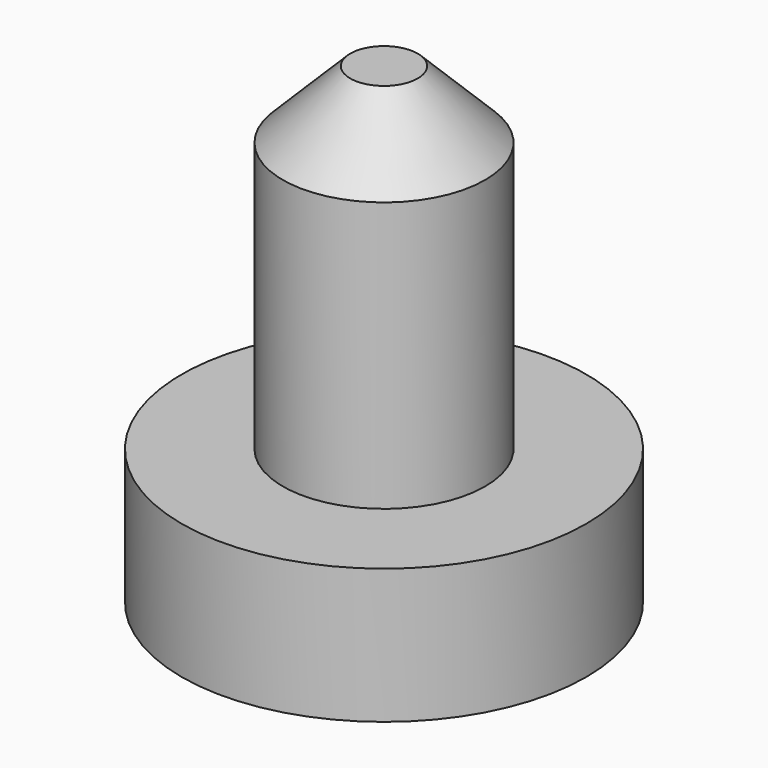
from build123d import *

# Parameters (mm, degrees)
F0_R     = 3
F0_R_2   = 1.5
F1_DEPTH = 2
F2_DEPTH = 7
F3_SIZE  = 1


with BuildPart() as f1:
    # F0 (on Top) → F1 (new body)
    with BuildSketch(Plane.XY):
        Circle(F0_R)
        Circle(F0_R_2, mode=Mode.SUBTRACT)
    extrude(amount=F1_DEPTH)

    # F0 (on Top) → F2 (join)
    with BuildSketch(Plane.XY):
        Circle(F0_R_2)
    extrude(amount=F2_DEPTH)

    # F3
    f3_edges = [f1.edges().sort_by_distance(p)[0] for p in [
        (-1.5, 0, 7),
    ]]
    chamfer(f3_edges, length=F3_SIZE)


solid = f1.part
